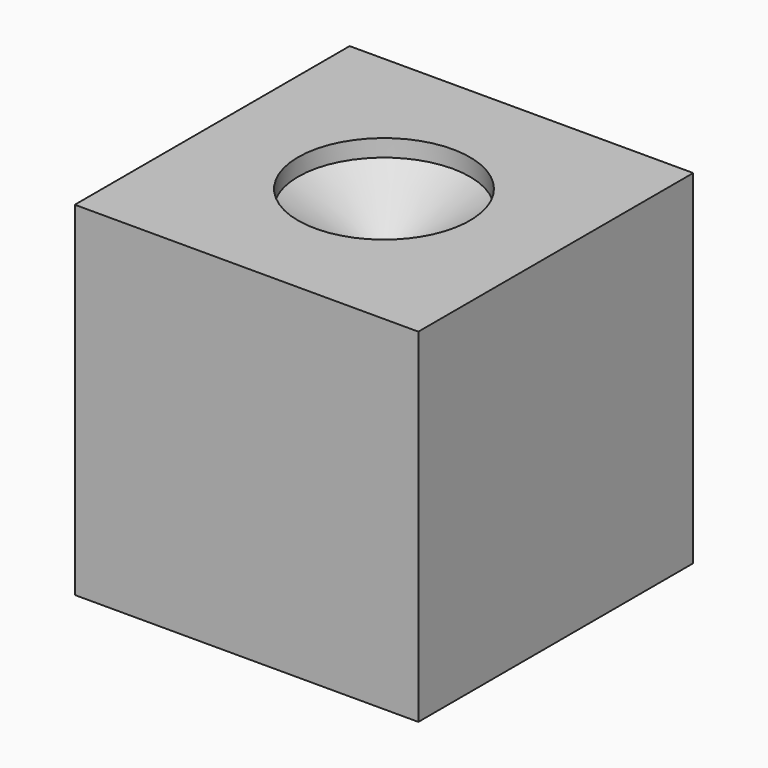
from build123d import *

# Parameters (mm, degrees)
F0_W     = 100
F0_H     = 100
F1_DEPTH = 100
F3_D     = 5
F3_DEPTH = 40
F3_TIP   = 1.5021515476
F4_D     = 7.5
F4_DEPTH = 30
F4_TIP   = 2.2532273214
F5_D     = 12.5
F5_DEPTH = 20
F5_TIP   = 3.7553788689
F6_D     = 15
F6_DEPTH = 10
F6_TIP   = 4.5064546427
F7_D     = 30
F7_DEPTH = 5
F7_TIP   = 9.0129092854
F8_D     = 50
F8_DEPTH = 5
F8_TIP   = 15.0215154757


with BuildPart() as f1:
    # F0 (on Front) → F1 (new body)
    with BuildSketch(Plane.XZ):
        with Locations((50, 50)):
            Rectangle(F0_W, F0_H)
    extrude(amount=F1_DEPTH)

    # F3
    with Locations(Plane.XY.offset(100)):
        with Locations((50, -50)):
            Hole(F3_D / 2, depth=F3_DEPTH)
            with Locations((0, 0, -(F3_DEPTH + F3_TIP / 2))):  # 118° drill point
                Cone(0, F3_D / 2, F3_TIP, mode=Mode.SUBTRACT)

    # F4
    with Locations(Plane.XY.offset(100)):
        with Locations((50, -50)):
            Hole(F4_D / 2, depth=F4_DEPTH)
            with Locations((0, 0, -(F4_DEPTH + F4_TIP / 2))):  # 118° drill point
                Cone(0, F4_D / 2, F4_TIP, mode=Mode.SUBTRACT)

    # F5
    with Locations(Plane.XY.offset(100)):
        with Locations((50, -50)):
            Hole(F5_D / 2, depth=F5_DEPTH)
            with Locations((0, 0, -(F5_DEPTH + F5_TIP / 2))):  # 118° drill point
                Cone(0, F5_D / 2, F5_TIP, mode=Mode.SUBTRACT)

    # F6
    with Locations(Plane.XY.offset(100)):
        with Locations((50, -50)):
            Hole(F6_D / 2, depth=F6_DEPTH)
            with Locations((0, 0, -(F6_DEPTH + F6_TIP / 2))):  # 118° drill point
                Cone(0, F6_D / 2, F6_TIP, mode=Mode.SUBTRACT)

    # F7
    with Locations(Plane.XY.offset(100)):
        with Locations((50, -50)):
            Hole(F7_D / 2, depth=F7_DEPTH)
            with Locations((0, 0, -(F7_DEPTH + F7_TIP / 2))):  # 118° drill point
                Cone(0, F7_D / 2, F7_TIP, mode=Mode.SUBTRACT)

    # F8
    with Locations(Plane.XY.offset(100)):
        with Locations((50, -50)):
            Hole(F8_D / 2, depth=F8_DEPTH)
            with Locations((0, 0, -(F8_DEPTH + F8_TIP / 2))):  # 118° drill point
                Cone(0, F8_D / 2, F8_TIP, mode=Mode.SUBTRACT)


solid = f1.part
